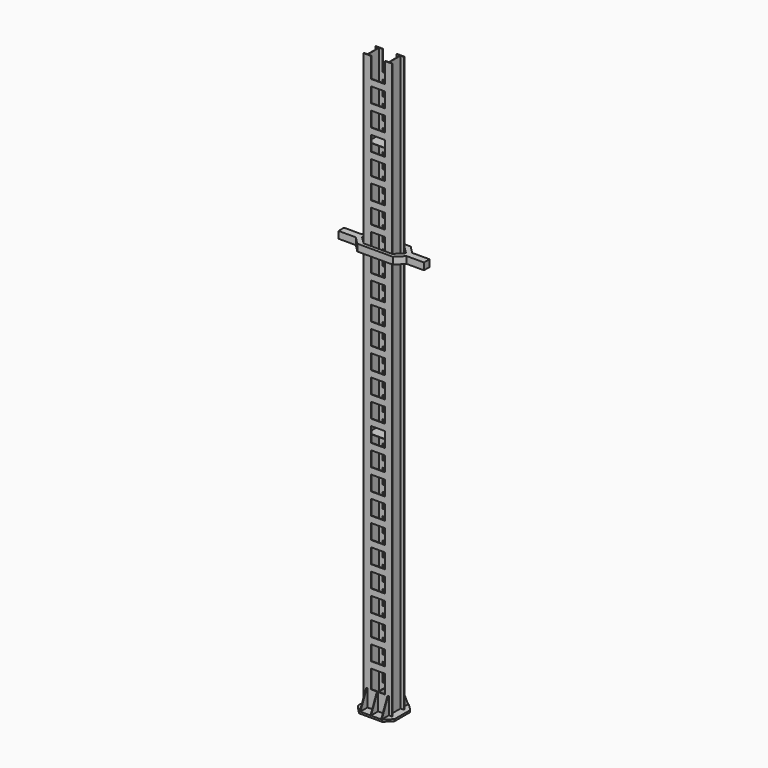
from build123d import *

# Parameters (mm, degrees)
F0_W      = 8
F0_H      = 332
F1_DEPTH  = 13500
F2_W      = 330
F2_H      = 475
F2_H_2    = 350
F2_H_3    = 430
F3_DEPTH  = 360.001
F5_DEPTH  = 45
F7_DEPTH  = 6
F11_DEPTH = 7
F14_DEPTH = 7
F17_DEPTH = 3
F20_DEPTH = 3
F23_DEPTH = 81


with BuildPart() as f1:
    # F0 (on Top) → F1 (new body)
    with BuildSketch(Plane.XY):
        Polygon((-335, -166), (-335, -180), (335, -180), (335, -166), (254, -166), (246, -166), (-246, -166), (-254, -166), align=None)
        with Locations((-250, 0)):
            Rectangle(F0_W, F0_H)
        Polygon((-335, 166), (-254, 166), (-246, 166), (246, 166), (254, 166), (335, 166), (335, 180), (-335, 180), align=None)
        with Locations((250, 0)):
            Rectangle(F0_W, F0_H)
    extrude(amount=F1_DEPTH)

    # F2 (on face) → F3 (cut, through all)
    with BuildSketch(Plane.XZ.offset(180)):
        with Locations((0, 13262.5)):
            Rectangle(F2_W, F2_H)
        with Locations((0, 12700)):
            Rectangle(F2_W, F2_H_2)
        with Locations((0, 12200)):
            Rectangle(F2_W, F2_H_2)
        with Locations((0, 11700)):
            Rectangle(F2_W, F2_H_2)
        with Locations((0, 11200)):
            Rectangle(F2_W, F2_H_2)
        with Locations((0, 10700)):
            Rectangle(F2_W, F2_H_2)
        with Locations((0, 10200)):
            Rectangle(F2_W, F2_H_2)
        with Locations((0, 9700)):
            Rectangle(F2_W, F2_H_2)
        with Locations((0, 9200)):
            Rectangle(F2_W, F2_H_2)
        with Locations((0, 8700)):
            Rectangle(F2_W, F2_H_2)
        with Locations((0, 8200)):
            Rectangle(F2_W, F2_H_2)
        with Locations((0, 7700)):
            Rectangle(F2_W, F2_H_2)
        with Locations((0, 7200)):
            Rectangle(F2_W, F2_H_2)
        with Locations((0, 6700)):
            Rectangle(F2_W, F2_H_2)
        with Locations((0, 6200)):
            Rectangle(F2_W, F2_H_2)
        with Locations((0, 5700)):
            Rectangle(F2_W, F2_H_2)
        with Locations((0, 5200)):
            Rectangle(F2_W, F2_H_2)
        with Locations((0, 4700)):
            Rectangle(F2_W, F2_H_2)
        with Locations((0, 4200)):
            Rectangle(F2_W, F2_H_2)
        with Locations((0, 3700)):
            Rectangle(F2_W, F2_H_2)
        with Locations((0, 3200)):
            Rectangle(F2_W, F2_H_2)
        with Locations((0, 2700)):
            Rectangle(F2_W, F2_H_2)
        with Locations((0, 2200)):
            Rectangle(F2_W, F2_H_2)
        with Locations((0, 1700)):
            Rectangle(F2_W, F2_H_2)
        with Locations((0, 1200)):
            Rectangle(F2_W, F2_H_2)
        with Locations((0, 660)):
            Rectangle(F2_W, F2_H_3)
    extrude(amount=-F3_DEPTH, mode=Mode.SUBTRACT)

    # F4 (on face) → F5 (join)
    with BuildSketch(Plane.XY):
        Polygon((270, 390), (-270, 390), (-430, 230), (-430, -230), (-270, -390), (270, -390), (430, -230), (430, 230), align=None)
    extrude(amount=F5_DEPTH)

    # F6 (on Right) → F7 (join, symmetric)
    with BuildSketch(Plane.YZ):
        Polygon((205, 445), (-205, 445), (-375, 70), (-375, 45), (375, 45), (375, 70), align=None)
    extrude(amount=F7_DEPTH, both=True)

    # F10 (on offset) → F11 (join, symmetric)
    with BuildSketch(Plane.YZ.offset(250)):
        Polygon((-375, 70), (-375, 45), (-180, 45), (-180, 445), (-205, 445), align=None)
        Polygon((375, 70), (205, 445), (180, 445), (180, 45), (375, 45), align=None)
    extrude(amount=F11_DEPTH, both=True)

    # F13 (on offset) → F14 (join, symmetric)
    with BuildSketch(Plane.YZ.offset(-250)):
        Polygon((180, 45), (375, 45), (375, 70), (205, 445), (180, 445), align=None)
        Polygon((-180, 445), (-205, 445), (-375, 70), (-375, 45), (-180, 45), align=None)
    extrude(amount=F14_DEPTH, both=True)

    # F16 (on offset) → F17 (join, symmetric)
    with BuildSketch(Plane.XY.offset(5700)):
        Polygon((-246, -132.5), (-211, -167.5), (211, -167.5), (246, -132.5), (246, 132.5), (211, 167.5), (-211, 167.5), (-246, 132.5), align=None)
    extrude(amount=F17_DEPTH, both=True)

    # F19 (on offset) → F20 (join, symmetric)
    with BuildSketch(Plane.XY.offset(11700)):
        Polygon((-250, -132.5), (-215, -167.5), (211, -167.5), (246, -132.5), (246, 132.5), (211, 167.5), (-215, 167.5), (-250, 132.5), align=None)
    extrude(amount=F20_DEPTH, both=True)

    # F22 (on offset) → F23 (join, symmetric)
    with BuildSketch(Plane.XY.offset(9500)):
        Polygon((416, 261), (-416, 261), (-596, 81), (-1000, 81), (-1000, -81), (-596, -81), (-416, -261), (416, -261), (596, -81), (1000, -81), (1000, 81), (596, 81), align=None)
        Polygon((-515, 0), (-335, 180), (335, 180), (515, 0), (335, -180), (-335, -180), align=None, mode=Mode.SUBTRACT)
    extrude(amount=F23_DEPTH, both=True)


solid = f1.part
